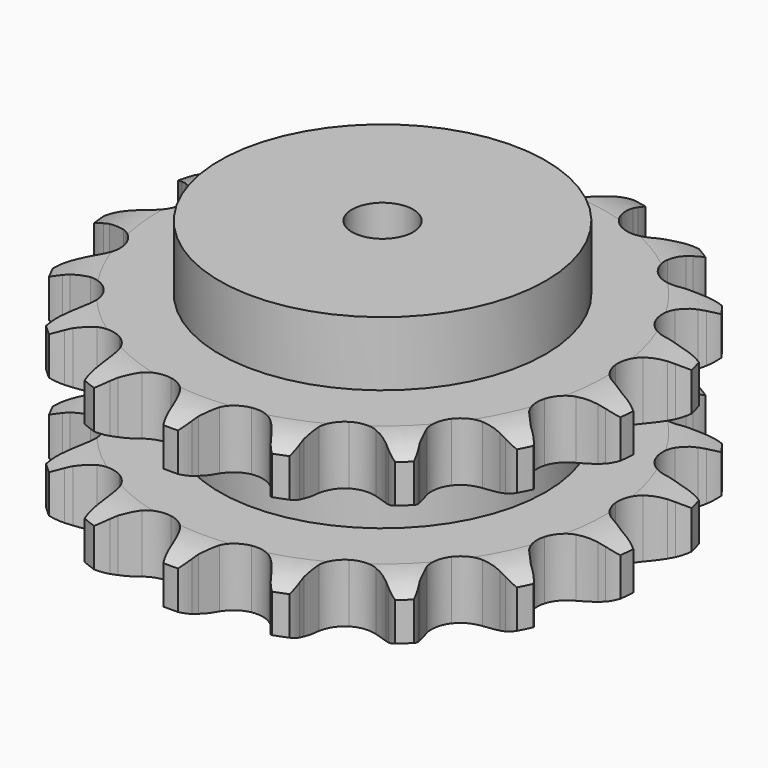
from build123d import *

# Parameters (mm, degrees)
PAD_DEPTH         = 88.4
SKETCH001_R       = 80
PAD001_DEPTH      = 120
SKETCH002_R       = 15
POCKET_DEPTH      = 0.001
POCKET_DEPTH_BACK = 120.001


with BuildPart() as part:
    # Sprocket → Pad (new body)
    with BuildSketch(Plane.XY):
        with BuildLine():
            ThreePointArc((-24.786799, 132.597661), (-20.350659, 128.385704), (-17.165614, 123.163117))
            Line((-17.165614, 123.163117), (-15.840182, 120.161301))
            ThreePointArc((-15.840182, 120.161301), (-13.682912, 116.017224), (-11.013018, 112.183314))
            ThreePointArc((-11.013018, 112.183314), (-6.112844, 108.271144), (0, 106.874748))
            ThreePointArc((0, 106.874748), (6.112844, 108.271144), (11.013018, 112.183314))
            ThreePointArc((11.013018, 112.183314), (13.682912, 116.017224), (15.840182, 120.161301))
            Line((15.840182, 120.161301), (17.165614, 123.163117))
            ThreePointArc((17.165614, 123.163117), (20.350659, 128.385704), (24.786799, 132.597661))
            ThreePointArc((24.786799, 132.597661), (27.401841, 127.06761), (28.485192, 121.047122))
            Line((28.485192, 121.047122), (28.636738, 117.76921))
            ThreePointArc((28.636738, 117.76921), (29.15132, 113.125677), (30.255953, 108.586186))
            ThreePointArc((30.255953, 108.586186), (33.411991, 103.168049), (38.607612, 99.657735))
            ThreePointArc((38.607612, 99.657735), (44.812106, 98.751621), (50.794621, 100.629464))
            Line((50.794621, 100.629464), (58.177799, 106.324943))
            ThreePointArc((58.177799, 106.324943), (59.311815, 107.511236), (60.498108, 108.645252))
            ThreePointArc((60.498108, 108.645252), (65.35469, 112.364598), (71.012802, 114.689613))
            ThreePointArc((71.012802, 114.689613), (71.453571, 108.58833), (70.288914, 102.583041))
            Line((70.288914, 102.583041), (69.246109, 99.471735))
            ThreePointArc((69.246109, 99.471735), (68.048504, 94.955881), (67.438691, 90.323892))
            ThreePointArc((67.438691, 90.323892), (68.424352, 84.131537), (72.001052, 78.981392))
            ThreePointArc((72.001052, 78.981392), (77.459244, 75.895145), (83.716129, 75.485047))
            Line((83.716129, 75.485047), (92.658181, 78.128811))
            ThreePointArc((92.658181, 78.128811), (94.144158, 78.825343), (95.659997, 79.454243))
            ThreePointArc((95.659997, 79.454243), (101.532208, 81.16803), (107.648132, 81.292096))
            ThreePointArc((107.648132, 81.292096), (105.8551, 75.443595), (102.599729, 70.264553))
            Line((102.599729, 70.264553), (100.503409, 67.740051))
            ThreePointArc((100.503409, 67.740051), (97.755361, 63.961767), (95.51346, 59.862856))
            ThreePointArc((95.51346, 59.862856), (94.195625, 53.732595), (95.670351, 47.638175))
            ThreePointArc((95.670351, 47.638175), (99.645083, 42.788608), (105.331309, 40.145956))
            Line((105.331309, 40.145956), (114.624563, 39.380951))
            ThreePointArc((114.624563, 39.380951), (116.261811, 39.49365), (117.902474, 39.532498))
            ThreePointArc((117.902474, 39.532498), (123.997239, 39.00927), (129.744986, 36.915631))
            ThreePointArc((129.744986, 36.915631), (125.960311, 32.109785), (121.053882, 28.456447))
            Line((121.053882, 28.456447), (118.187167, 26.859697))
            ThreePointArc((118.187167, 26.859697), (114.259815, 24.329262), (110.688607, 21.317009))
            ThreePointArc((110.688607, 21.317009), (107.245257, 16.076768), (106.41884, 9.861158))
            ThreePointArc((106.41884, 9.861158), (108.373301, 3.903233), (112.720913, -0.615068))
            Line((112.720913, -0.615068), (121.110262, -4.685525))
            ThreePointArc((121.110262, -4.685525), (122.677662, -5.171878), (124.221568, -5.72833))
            ThreePointArc((124.221568, -5.72833), (129.715755, -8.417908), (134.31906, -12.446494))
            ThreePointArc((134.31906, -12.446494), (129.053884, -15.56063), (123.159038, -17.194859))
            Line((123.159038, -17.194859), (119.909093, -17.648207))
            ThreePointArc((119.909093, -17.648207), (115.332847, -18.589045), (110.914644, -20.107818))
            ThreePointArc((110.914644, -20.107818), (105.810822, -23.750315), (102.794874, -29.247663))
            ThreePointArc((102.794874, -29.247663), (102.465104, -35.509295), (104.886933, -41.293025))
            Line((104.886933, -41.293025), (111.239349, -48.119195))
            ThreePointArc((111.239349, -48.119195), (112.525215, -49.138916), (113.763851, -50.215515))
            ThreePointArc((113.763851, -50.215515), (117.91544, -54.708201), (120.752602, -60.127651))
            ThreePointArc((120.752602, -60.127651), (114.718015, -61.129496), (108.630883, -60.523905))
            Line((108.630883, -60.523905), (105.436631, -59.772624))
            ThreePointArc((105.436631, -59.772624), (100.82954, -58.996798), (96.161043, -58.816972))
            ThreePointArc((96.161043, -58.816972), (90.08605, -60.369787), (85.28789, -64.406425))
            ThreePointArc((85.28789, -64.406425), (82.718427, -70.126096), (82.887391, -76.394129))
            Line((82.887391, -76.394129), (86.344946, -85.054101))
            ThreePointArc((86.344946, -85.054101), (87.175615, -86.469471), (87.941696, -87.920816))
            ThreePointArc((87.941696, -87.920816), (90.189992, -93.609848), (90.877835, -99.688236))
            ThreePointArc((90.877835, -99.688236), (84.888843, -98.442484), (79.431525, -95.678862))
            Line((79.431525, -95.678862), (76.724368, -93.824416))
            ThreePointArc((76.724368, -93.824416), (72.708644, -91.436707), (68.420362, -89.582569))
            ThreePointArc((68.420362, -89.582569), (62.194657, -88.835984), (56.262305, -90.866742))
            ThreePointArc((56.262305, -90.866742), (51.800168, -95.27198), (49.693448, -101.177783))
            Line((49.693448, -101.177783), (49.789179, -110.501979))
            ThreePointArc((49.789179, -110.501979), (50.052464, -112.121844), (50.242527, -113.751924))
            ThreePointArc((50.242527, -113.751924), (50.283885, -119.868967), (48.729513, -125.785372))
            ThreePointArc((48.729513, -125.785372), (43.594961, -122.46027), (39.5045, -117.911858))
            Line((39.5045, -117.911858), (37.650054, -115.204701))
            ThreePointArc((37.650054, -115.204701), (34.768043, -111.527581), (31.439131, -108.249543))
            ThreePointArc((31.439131, -108.249543), (25.903532, -105.30439), (19.638183, -105.055003))
            ThreePointArc((19.638183, -105.055003), (13.886009, -107.550854), (9.788129, -112.296817))
            Line((9.788129, -112.296817), (6.509108, -121.025953))
            ThreePointArc((6.509108, -121.025953), (6.169451, -122.631542), (5.757827, -124.220204))
            ThreePointArc((5.757827, -124.220204), (3.586661, -129.939117), (0, -134.894497))
            ThreePointArc((0, -134.894497), (-3.586661, -129.939117), (-5.757827, -124.220204))
            Line((-5.757827, -124.220204), (-6.509108, -121.025953))
            ThreePointArc((-6.509108, -121.025953), (-7.868174, -116.556038), (-9.788129, -112.296817))
            ThreePointArc((-9.788129, -112.296817), (-13.886009, -107.550854), (-19.638183, -105.055003))
            ThreePointArc((-19.638183, -105.055003), (-25.903532, -105.30439), (-31.439131, -108.249543))
            Line((-31.439131, -108.249543), (-37.650054, -115.204701))
            ThreePointArc((-37.650054, -115.204701), (-38.546781, -116.57917), (-39.5045, -117.911858))
            ThreePointArc((-39.5045, -117.911858), (-43.594961, -122.46027), (-48.729513, -125.785372))
            ThreePointArc((-48.729513, -125.785372), (-50.283885, -119.868967), (-50.242527, -113.751924))
            Line((-50.242527, -113.751924), (-49.789179, -110.501979))
            ThreePointArc((-49.789179, -110.501979), (-49.441752, -105.842957), (-49.693448, -101.177783))
            ThreePointArc((-49.693448, -101.177783), (-51.800168, -95.27198), (-56.262305, -90.866742))
            ThreePointArc((-56.262305, -90.866742), (-62.194657, -88.835984), (-68.420362, -89.582569))
            Line((-68.420362, -89.582569), (-76.724368, -93.824416))
            ThreePointArc((-76.724368, -93.824416), (-78.057056, -94.782135), (-79.431525, -95.678862))
            ThreePointArc((-79.431525, -95.678862), (-84.888843, -98.442484), (-90.877835, -99.688236))
            ThreePointArc((-90.877835, -99.688236), (-90.189992, -93.609848), (-87.941696, -87.920816))
            Line((-87.941696, -87.920816), (-86.344946, -85.054101))
            ThreePointArc((-86.344946, -85.054101), (-84.337946, -80.835197), (-82.887391, -76.394129))
            ThreePointArc((-82.887391, -76.394129), (-82.718427, -70.126096), (-85.28789, -64.406425))
            ThreePointArc((-85.28789, -64.406425), (-90.08605, -60.369787), (-96.161043, -58.816972))
            Line((-96.161043, -58.816972), (-105.436631, -59.772624))
            ThreePointArc((-105.436631, -59.772624), (-107.025294, -60.184248), (-108.630883, -60.523905))
            ThreePointArc((-108.630883, -60.523905), (-114.718015, -61.129496), (-120.752602, -60.127651))
            ThreePointArc((-120.752602, -60.127651), (-117.91544, -54.708201), (-113.763851, -50.215515))
            Line((-113.763851, -50.215515), (-111.239349, -48.119195))
            ThreePointArc((-111.239349, -48.119195), (-107.843834, -44.910196), (-104.886933, -41.293025))
            ThreePointArc((-104.886933, -41.293025), (-102.465104, -35.509295), (-102.794874, -29.247663))
            ThreePointArc((-102.794874, -29.247663), (-105.810822, -23.750315), (-110.914644, -20.107818))
            Line((-110.914644, -20.107818), (-119.909093, -17.648207))
            ThreePointArc((-119.909093, -17.648207), (-121.539172, -17.458144), (-123.159038, -17.194859))
            ThreePointArc((-123.159038, -17.194859), (-129.053884, -15.56063), (-134.31906, -12.446494))
            ThreePointArc((-134.31906, -12.446494), (-129.715755, -8.417908), (-124.221568, -5.72833))
            Line((-124.221568, -5.72833), (-121.110262, -4.685525))
            ThreePointArc((-121.110262, -4.685525), (-116.784814, -2.919824), (-112.720913, -0.615068))
            ThreePointArc((-112.720913, -0.615068), (-108.373301, 3.903233), (-106.41884, 9.861158))
            ThreePointArc((-106.41884, 9.861158), (-107.245257, 16.076768), (-110.688607, 21.317009))
            Line((-110.688607, 21.317009), (-118.187167, 26.859697))
            ThreePointArc((-118.187167, 26.859697), (-119.638512, 27.625778), (-121.053882, 28.456447))
            ThreePointArc((-121.053882, 28.456447), (-125.960311, 32.109785), (-129.744986, 36.915631))
            ThreePointArc((-129.744986, 36.915631), (-123.997239, 39.00927), (-117.902474, 39.532498))
            Line((-117.902474, 39.532498), (-114.624563, 39.380951))
            ThreePointArc((-114.624563, 39.380951), (-109.953358, 39.464886), (-105.331309, 40.145956))
            ThreePointArc((-105.331309, 40.145956), (-99.645083, 42.788608), (-95.670351, 47.638175))
            ThreePointArc((-95.670351, 47.638175), (-94.195625, 53.732595), (-95.51346, 59.862856))
            Line((-95.51346, 59.862856), (-100.503409, 67.740051))
            ThreePointArc((-100.503409, 67.740051), (-101.580008, 68.978687), (-102.599729, 70.264553))
            ThreePointArc((-102.599729, 70.264553), (-105.8551, 75.443595), (-107.648132, 81.292096))
            ThreePointArc((-107.648132, 81.292096), (-101.532208, 81.16803), (-95.659997, 79.454243))
            Line((-95.659997, 79.454243), (-92.658181, 78.128811))
            ThreePointArc((-92.658181, 78.128811), (-88.272092, 76.519645), (-83.716129, 75.485047))
            ThreePointArc((-83.716129, 75.485047), (-77.459244, 75.895145), (-72.001052, 78.981392))
            ThreePointArc((-72.001052, 78.981392), (-68.424352, 84.131537), (-67.438691, 90.323892))
            Line((-67.438691, 90.323892), (-69.246109, 99.471735))
            ThreePointArc((-69.246109, 99.471735), (-69.802561, 101.015641), (-70.288914, 102.583041))
            ThreePointArc((-70.288914, 102.583041), (-71.453571, 108.58833), (-71.012802, 114.689613))
            ThreePointArc((-71.012802, 114.689613), (-65.35469, 112.364598), (-60.498108, 108.645252))
            Line((-60.498108, 108.645252), (-58.177799, 106.324943))
            ThreePointArc((-58.177799, 106.324943), (-54.669191, 103.240001), (-50.794621, 100.629464))
            ThreePointArc((-50.794621, 100.629464), (-44.812106, 98.751621), (-38.607612, 99.657735))
            ThreePointArc((-38.607612, 99.657735), (-33.411991, 103.168049), (-30.255953, 108.586186))
            Line((-30.255953, 108.586186), (-28.636738, 117.76921))
            ThreePointArc((-28.636738, 117.76921), (-28.597891, 119.409873), (-28.485192, 121.047122))
            ThreePointArc((-28.485192, 121.047122), (-27.401841, 127.06761), (-24.786799, 132.597661))
        make_face()
    extrude(amount=PAD_DEPTH)

    # Sketch → Groove (revolve, cut)
    with BuildSketch(Plane.XZ):
        with BuildLine():
            ThreePointArc((109.628451, 0), (120.11654, 1.268279), (130, 5))
            Line((130, 5), (130, 23.8))
            ThreePointArc((130, 23.8), (120.11654, 27.531721), (109.628451, 28.8))
            Line((80, 28.8), (109.628451, 28.8))
            Line((80, 59.6), (80, 28.8))
            Line((109.628451, 59.6), (80, 59.6))
            ThreePointArc((109.628451, 59.6), (120.11654, 60.868279), (130, 64.6))
            Line((130, 64.6), (130, 83.4))
            ThreePointArc((130, 83.4), (120.11654, 87.131721), (109.628451, 88.4))
            Line((109.628451, 88.4), (140, 88.4))
            Line((140, 88.4), (140, 0))
            Line((109.628451, 0), (140, 0))
        make_face()
    revolve(axis=Axis((0, 0, 0), (0, 0, 1)), mode=Mode.SUBTRACT)

    # Sketch001 → Pad001 (join)
    with BuildSketch(Plane.XY):
        Circle(SKETCH001_R)
    extrude(amount=PAD001_DEPTH)

    # Sketch002 → Pocket (cut, two sides)
    with BuildSketch(Plane.XY) as pocket_sk:
        Circle(SKETCH002_R)
    extrude(amount=-POCKET_DEPTH, mode=Mode.SUBTRACT)
    extrude(pocket_sk.sketch, amount=POCKET_DEPTH_BACK, mode=Mode.SUBTRACT)


solid = part.part
